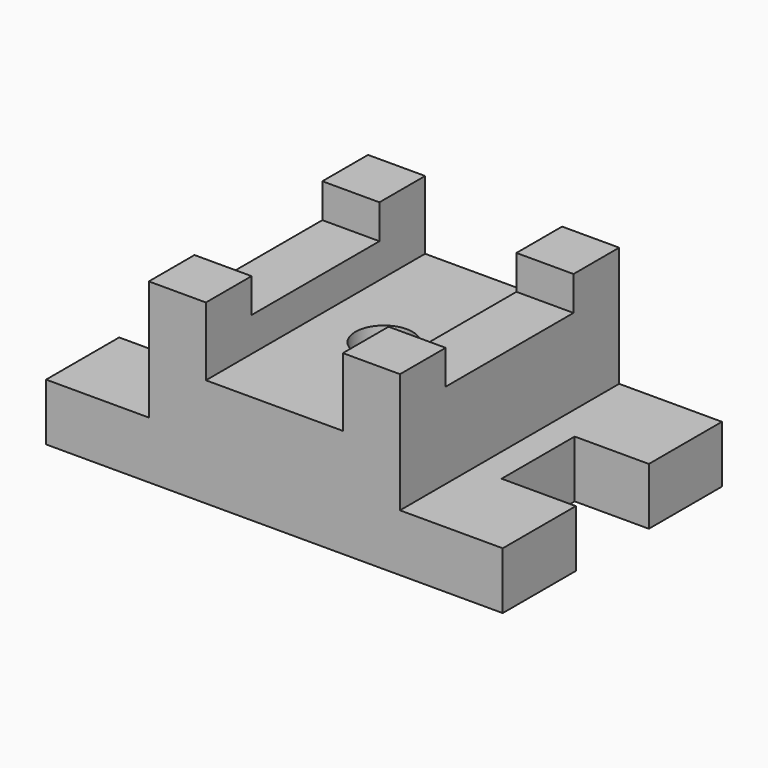
from build123d import *

# Parameters (mm, degrees)
F0_W     = 31.75
F0_H     = 88.9
F0_H_2   = 31.75
F0_R     = 15.875
F1_DEPTH = 31.75
F2_DEPTH = 60.325
F3_DEPTH = 79.375
F4_DEPTH = 98.425


with BuildPart() as f1:
    # F0 (on Top) → F1 (new body)
    with BuildSketch(Plane.XY):
        Polygon((-127, -76.2), (-69.85, -76.2), (-69.85, -44.45), (-69.85, 44.45), (-69.85, 76.2), (-127, 76.2), (-127, 25.4), (-85.725, 25.4), (-85.725, -25.4), (-127, -25.4), align=None)
        with Locations((-53.975, 0)):
            Rectangle(F0_W, F0_H)
        with Locations((-53.975, 60.325)):
            Rectangle(F0_W, F0_H_2)
        Polygon((-38.1, -76.2), (38.1, -76.2), (38.1, -44.45), (38.1, 44.45), (38.1, 76.2), (-38.1, 76.2), (-38.1, 44.45), (-38.1, -44.45), align=None)
        Circle(F0_R, mode=Mode.SUBTRACT)
        with Locations((53.975, 0)):
            Rectangle(F0_W, F0_H)
        with Locations((53.975, -60.325)):
            Rectangle(F0_W, F0_H_2)
        Polygon((69.85, -76.2), (127, -76.2), (127, -25.4), (85.725, -25.4), (85.725, 25.4), (127, 25.4), (127, 76.2), (69.85, 76.2), (69.85, 44.45), (69.85, -44.45), align=None)
        with Locations((53.975, 60.325)):
            Rectangle(F0_W, F0_H_2)
        with Locations((-53.975, -60.325)):
            Rectangle(F0_W, F0_H_2)
    extrude(amount=F1_DEPTH)

    # F0 (on Top) → F2 (join)
    with BuildSketch(Plane.XY):
        with Locations((-53.975, -60.325)):
            Rectangle(F0_W, F0_H_2)
        with Locations((-53.975, 0)):
            Rectangle(F0_W, F0_H)
        with Locations((-53.975, 60.325)):
            Rectangle(F0_W, F0_H_2)
        Polygon((-38.1, -76.2), (38.1, -76.2), (38.1, -44.45), (38.1, 44.45), (38.1, 76.2), (-38.1, 76.2), (-38.1, 44.45), (-38.1, -44.45), align=None)
        Circle(F0_R, mode=Mode.SUBTRACT)
        with Locations((53.975, 60.325)):
            Rectangle(F0_W, F0_H_2)
        with Locations((53.975, 0)):
            Rectangle(F0_W, F0_H)
        with Locations((53.975, -60.325)):
            Rectangle(F0_W, F0_H_2)
    extrude(amount=F2_DEPTH)

    # F0 (on Top) → F3 (join)
    with BuildSketch(Plane.XY):
        with Locations((-53.975, 0)):
            Rectangle(F0_W, F0_H)
        with Locations((53.975, 0)):
            Rectangle(F0_W, F0_H)
    extrude(amount=F3_DEPTH)

    # F0 (on Top) → F4 (join)
    with BuildSketch(Plane.XY):
        with Locations((-53.975, 60.325)):
            Rectangle(F0_W, F0_H_2)
        with Locations((-53.975, -60.325)):
            Rectangle(F0_W, F0_H_2)
        with Locations((53.975, -60.325)):
            Rectangle(F0_W, F0_H_2)
        with Locations((53.975, 60.325)):
            Rectangle(F0_W, F0_H_2)
    extrude(amount=F4_DEPTH)


solid = f1.part
